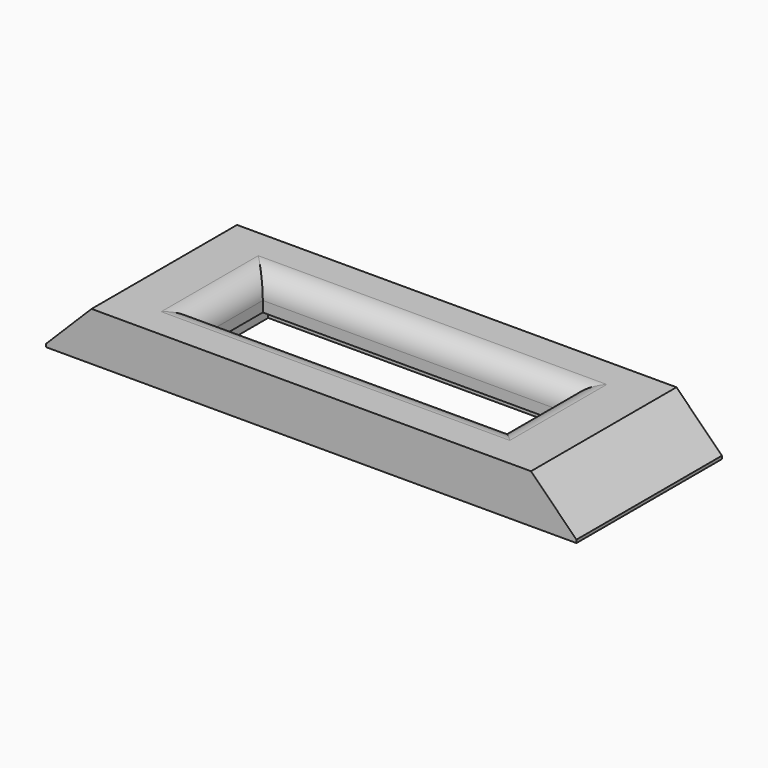
from build123d import *

# Parameters (mm, degrees)
F0_W     = 35
F0_H     = 12
F0_W_2   = 20
F0_H_2   = 5
F1_DEPTH = 3.2
F2_R     = 1.5
F3_W     = 21.2
F3_H     = 7.4
F4_DEPTH = 1
F5_SIZE2 = 3
F5_SIZE  = 3


with BuildPart() as f1:
    # F0 (on Top) → F1 (new body)
    with BuildSketch(Plane.XY):
        with Locations((-41.313777, 28.558676)):
            Rectangle(F0_W, F0_H)
        with Locations((-41.313777, 28.558676)):
            Rectangle(F0_W_2, F0_H_2, mode=Mode.SUBTRACT)
    extrude(amount=F1_DEPTH)

    # F2
    f2_edges = [f1.edges().sort_by_distance(p)[0] for p in [
        (-41.313777, 31.058676, 3.2),
        (-31.313777, 28.558676, 3.2),
        (-51.313777, 28.558676, 3.2),
        (-41.313777, 26.058676, 3.2),
    ]]
    fillet(f2_edges, radius=F2_R)

    # F3 (on face) → F4 (cut)
    with BuildSketch(Plane(origin=(0, 0, 0), x_dir=(1, 0, 0), z_dir=(0, 0, -1))):
        with Locations((-41.313777, -28.558676)):
            Rectangle(F3_W, F3_H)
    extrude(amount=-F4_DEPTH, mode=Mode.SUBTRACT)

    # F5
    f5_edges = [f1.edges().sort_by_distance(p)[0] for p in [
        (-58.813777, 28.558676, 3.2),
        (-23.813777, 28.558676, 3.2),
    ]]
    chamfer(f5_edges, length=F5_SIZE, length2=F5_SIZE2)


solid = f1.part
